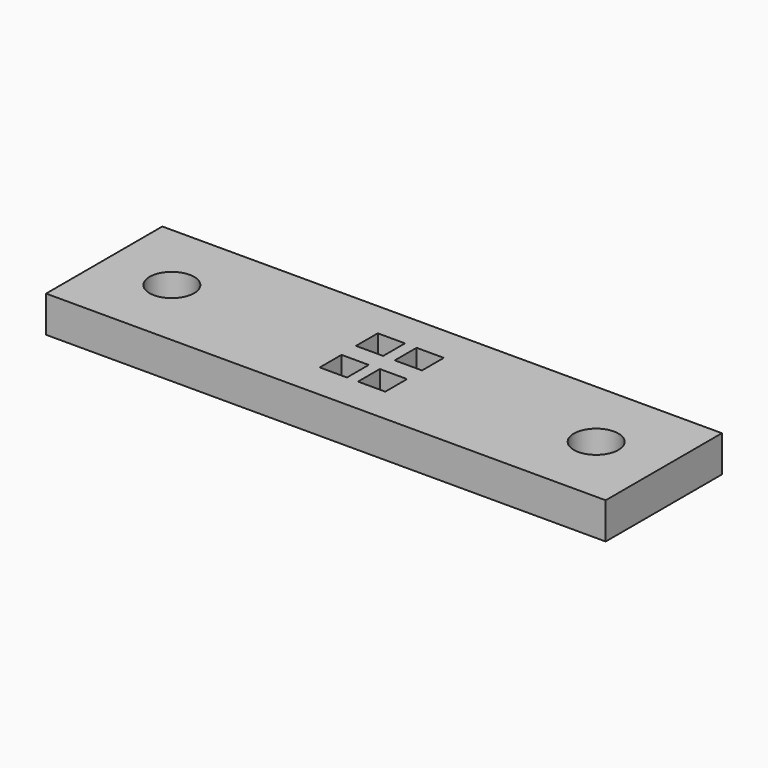
from build123d import *

# Parameters (mm, degrees)
F0_R     = 2.45
F1_DEPTH = 4
F2_W     = 3
F2_H     = 3
F3_DEPTH = 4.001


with BuildPart() as f1:
    # F0 (on Top) → F1 (new body)
    with BuildSketch(Plane.XY):
        Polygon((31.067557, 8), (-8.944272, 8), (-30.555639, 8), (-30.555639, -8), (-8.944272, -8), (31.067557, -8), align=None)
        with Locations((-23.105639, 0)):
            Circle(F0_R, mode=Mode.SUBTRACT)
        with Locations((23.617557, 0)):
            Circle(F0_R, mode=Mode.SUBTRACT)
    extrude(amount=F1_DEPTH)

    # F2 (on face) → F3 (cut, through all)
    with BuildSketch(Plane.XY.offset(4)):
        with Locations((-2.162945, 2.539613)):
            Rectangle(F2_W, F2_H)
        with Locations((2.130729, 2.515517)):
            Rectangle(F2_W, F2_H)
        with Locations((-2.086136, -2.544725)):
            Rectangle(F2_W, F2_H)
        with Locations((2.130731, -2.544725)):
            Rectangle(F2_W, F2_H)
    extrude(amount=-F3_DEPTH, mode=Mode.SUBTRACT)


solid = f1.part
